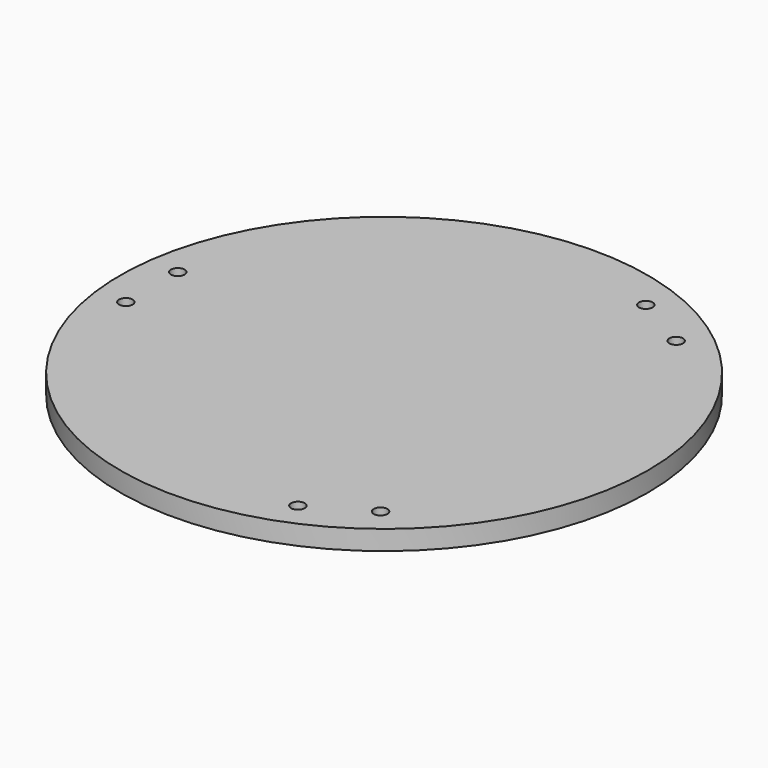
from build123d import *

# Parameters (mm, degrees)
F0_R     = 1350
F0_R_2   = 35
F1_DEPTH = 100


with BuildPart() as f1:
    # F0 (on Top) → F1 (new body)
    with BuildSketch(Plane.XY):
        Circle(F0_R)
        with Locations((-1188, -166)):
            Circle(F0_R_2, mode=Mode.SUBTRACT)
        with Locations((449, -1112)):
            Circle(F0_R_2, mode=Mode.SUBTRACT)
        with Locations((738, -945)):
            Circle(F0_R_2, mode=Mode.SUBTRACT)
        with Locations((-1188, 166)):
            Circle(F0_R_2, mode=Mode.SUBTRACT)
        with Locations((449, 1112)):
            Circle(F0_R_2, mode=Mode.SUBTRACT)
        with Locations((738, 945)):
            Circle(F0_R_2, mode=Mode.SUBTRACT)
    extrude(amount=F1_DEPTH)


solid = f1.part
